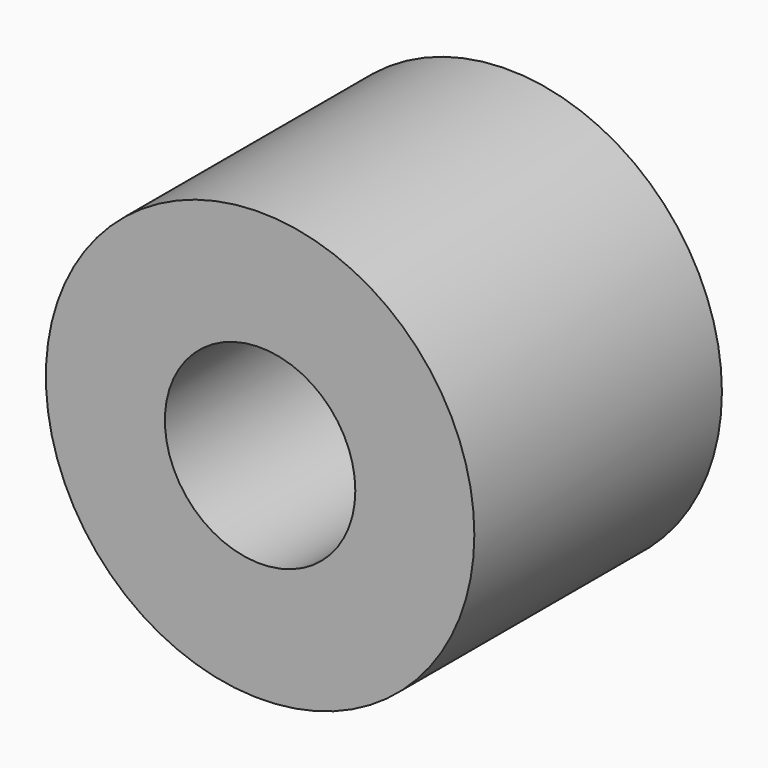
from build123d import *

# Parameters (mm, degrees)
CYLINDER387_R          = 0.4
CYLINDER387_DEPTH      = 1.3
CYLINDER388_R          = 0.9
CYLINDER388_DEPTH      = 1.3
CUT185_PLACEMENT_ANGLE = 90


with BuildPart() as cylinder387:
    # Cylinder387 → Cylinder387 (new body)
    with BuildSketch(Plane.XY):
        Circle(CYLINDER387_R)
    extrude(amount=CYLINDER387_DEPTH)


with BuildPart() as contact007:
    # Cylinder388 → Cylinder388 (new body)
    with BuildSketch(Plane.XY):
        Circle(CYLINDER388_R)
    extrude(amount=CYLINDER388_DEPTH)

    # Cut185: cut Cylinder387
    add(cylinder387.part, mode=Mode.SUBTRACT)


with BuildPart() as contact007_1:
    # Cut185 placement: moved
    add(contact007.part.moved(Location((-14.62, 1.3, -17))).rotate(Axis((-14.62, 1.3, -17), (1, 0, 0)), CUT185_PLACEMENT_ANGLE))


solid = contact007_1.part
